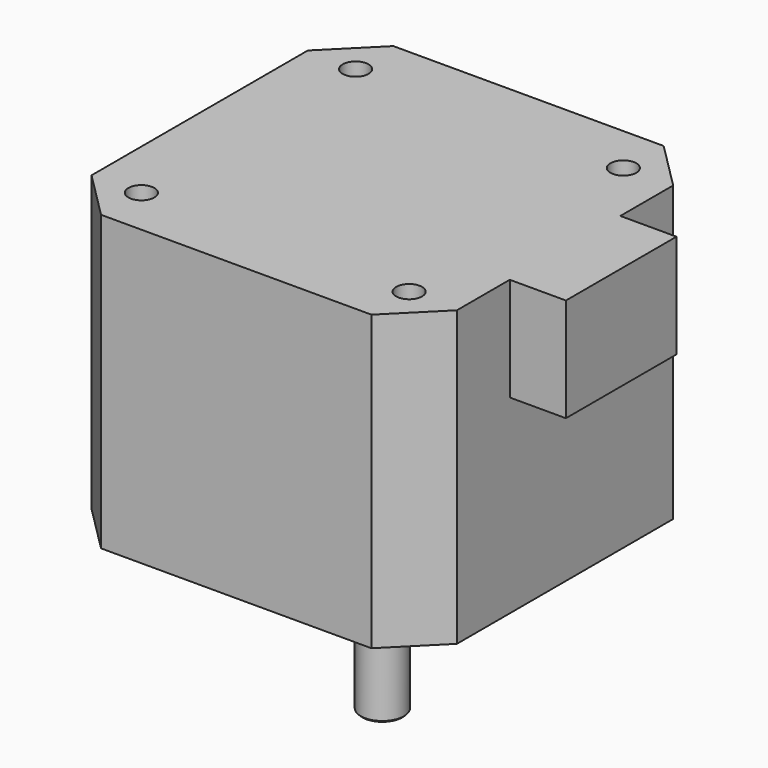
from build123d import *

# Parameters (mm, degrees)
F0_W     = 42.3
F0_H     = 42.3
F0_R     = 1.5
F0_R_2   = 11
F0_R_3   = 2.5
F1_DEPTH = 34
F2_DEPTH = 2
F3_DEPTH = 20
F4_SIZE  = 5.5
F5_SIZE  = 0.2
F6_W     = 16
F6_H     = 12
F7_DEPTH = 6.5


with BuildPart() as f1:
    # F0 (on Top) → F1 (new body)
    with BuildSketch(Plane.XY):
        Rectangle(F0_W, F0_H)
        with Locations((-15.5, -15.5)):
            Circle(F0_R, mode=Mode.SUBTRACT)
        with Locations((15.5, -15.5)):
            Circle(F0_R, mode=Mode.SUBTRACT)
        with Locations((-15.5, 15.5)):
            Circle(F0_R, mode=Mode.SUBTRACT)
        Circle(F0_R_2, mode=Mode.SUBTRACT)
        with Locations((15.5, 15.5)):
            Circle(F0_R, mode=Mode.SUBTRACT)
        Circle(F0_R_2)
        Circle(F0_R_3, mode=Mode.SUBTRACT)
        Circle(F0_R_3)
    extrude(amount=F1_DEPTH)

    # F0 (on Top) → F2 (join)
    with BuildSketch(Plane.XY):
        Circle(F0_R_2)
        Circle(F0_R_3, mode=Mode.SUBTRACT)
    extrude(amount=-F2_DEPTH)

    # F0 (on Top) → F3 (join)
    with BuildSketch(Plane.XY):
        Circle(F0_R_3)
    extrude(amount=-F3_DEPTH)

    # F4
    f4_edges = [f1.edges().sort_by_distance(p)[0] for p in [
        (-21.15, -21.15, 17),
        (21.15, -21.15, 17),
        (21.15, 21.15, 17),
        (-21.15, 21.15, 17),
    ]]
    chamfer(f4_edges, length=F4_SIZE)

    # F5
    f5_edges = [f1.edges().sort_by_distance(p)[0] for p in [
        (-2.5, 0, -20),
    ]]
    chamfer(f5_edges, length=F5_SIZE)

    # F6 (on face) → F7 (join)
    with BuildSketch(Plane.YZ.offset(21.15)):
        with Locations((0, 28)):
            Rectangle(F6_W, F6_H)
    extrude(amount=F7_DEPTH)


solid = f1.part
